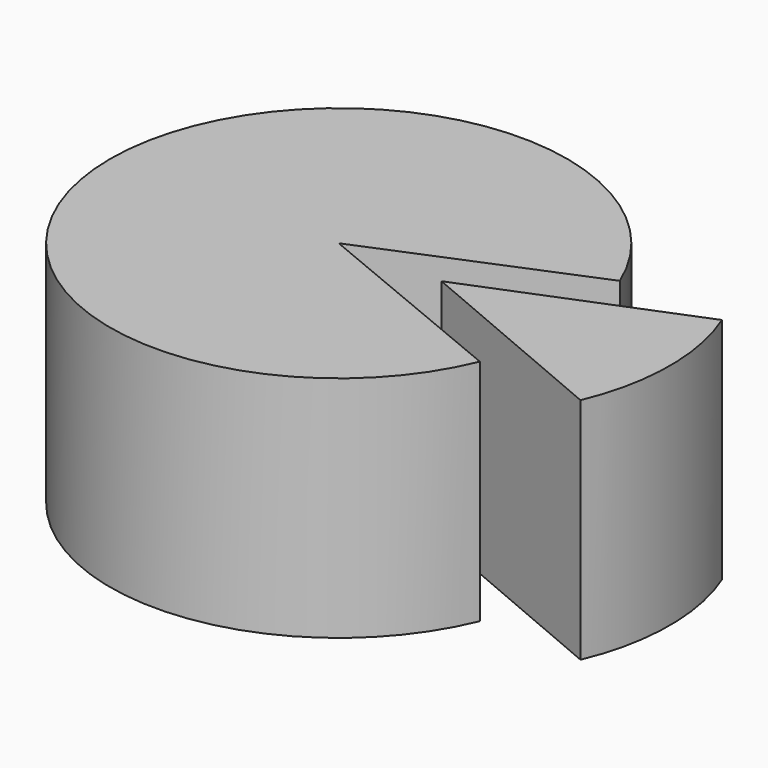
from build123d import *

# Parameters (mm, degrees)
CYLINDER_W                  = 20
CYLINDER_H                  = 20
CYLINDER_ANGLE              = 315
CYLINDER_PLACEMENT_ANGLE    = 22.5
CYLINDER001_W               = 20
CYLINDER001_H               = 20
CYLINDER001_ANGLE           = 45
CYLINDER001_PLACEMENT_ANGLE = 337


with BuildPart() as cake:
    # Cylinder → Cylinder (revolve)
    with BuildSketch(Plane.XZ):
        with Locations((10, 10)):
            Rectangle(CYLINDER_W, CYLINDER_H)
    revolve(axis=Axis((0, 0, 0), (0, 0, 1)), revolution_arc=CYLINDER_ANGLE)


with BuildPart() as cake_1:
    # Cylinder placement: moved
    add(cake.part.rotate(Axis((0, 0, 0), (0, 0, 1)), CYLINDER_PLACEMENT_ANGLE))


with BuildPart() as piece:
    # Cylinder001 → Cylinder001 (revolve)
    with BuildSketch(Plane.XZ):
        with Locations((10, 10)):
            Rectangle(CYLINDER001_W, CYLINDER001_H)
    revolve(axis=Axis((0, 0, 0), (0, 0, 1)), revolution_arc=CYLINDER001_ANGLE)


with BuildPart() as piece_1:
    # Cylinder001 placement: moved
    add(piece.part.moved(Location((9, 0, 0))).rotate(Axis((9, 0, 0), (0, 0, 1)), CYLINDER001_PLACEMENT_ANGLE))


solid = Compound([cake_1.part, piece_1.part])
